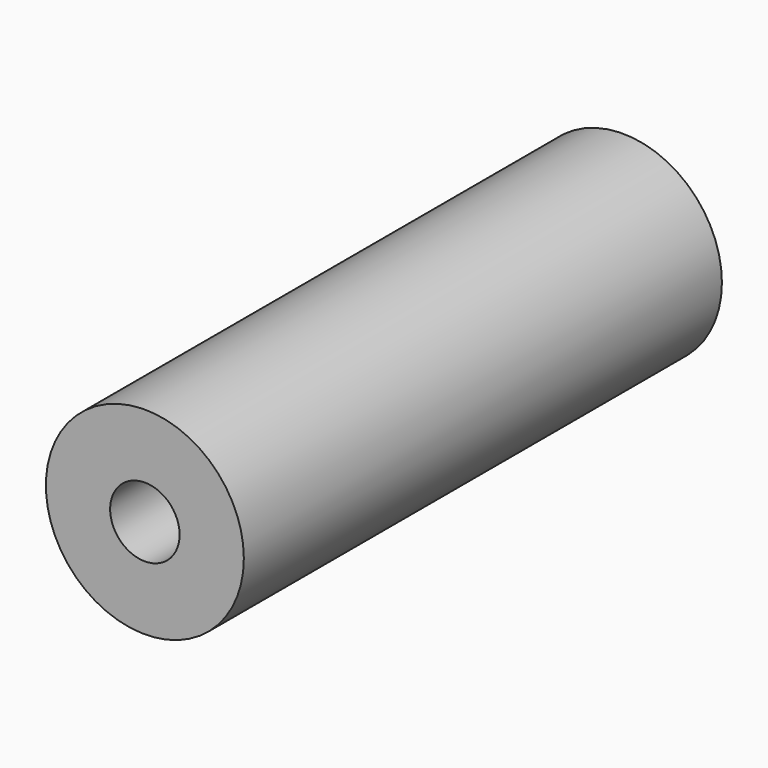
from build123d import *


with BuildPart() as f1:
    # F0 (on Top) → F1 (revolve)
    with BuildSketch(Plane.XY):
        Polygon((2.65, 52.823962), (0, 52.823962), (0, 51.823962), (0.93, 51.823962), (2.65, 51.823962), align=None)
        Polygon((2.65, 36.823962), (2.65, 51.823962), (0.93, 51.823962), (0.93, 40.636849), (0.93, 36.823962), align=None)
    revolve(axis=Axis((0, 64.323962, 0), (0, 1, 0)))


solid = f1.part
